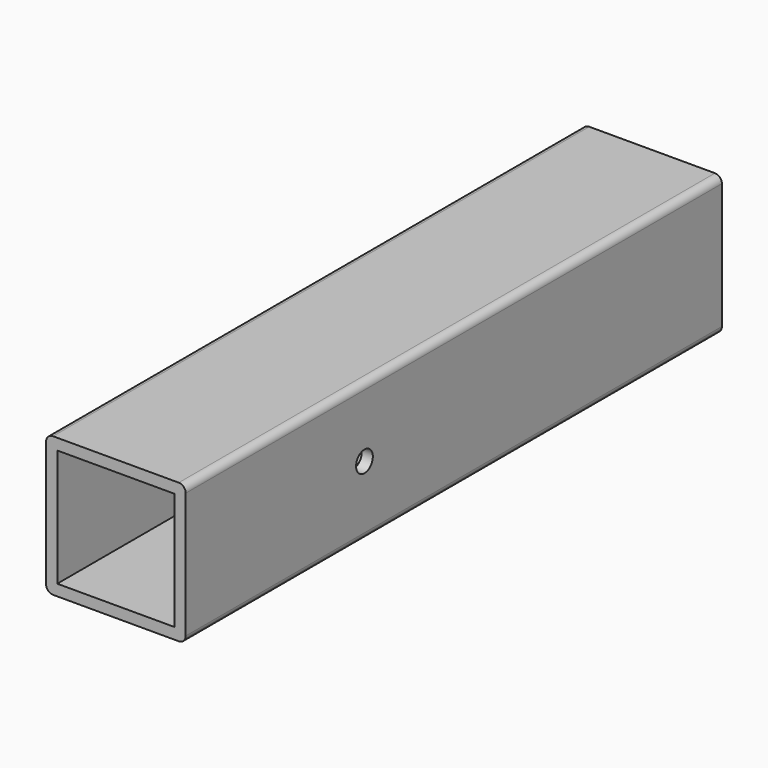
from build123d import *

# Parameters (mm, degrees)
F0_W     = 53.34
F0_H     = 53.34
F1_DEPTH = 304.8
F3_D     = 9.525


with BuildPart() as f1:
    # F0 (on Front) → F1 (new body)
    with BuildSketch(Plane.XZ):
        with BuildLine():
            ThreePointArc((31.75, 28.575), (30.820064, 30.820064), (28.575, 31.75))
            Line((28.575, 31.75), (-28.575, 31.75))
            ThreePointArc((-28.575, 31.75), (-30.820064, 30.820064), (-31.75, 28.575))
            Line((-31.75, 28.575), (-31.75, -28.575))
            ThreePointArc((-31.75, -28.575), (-30.820064, -30.820064), (-28.575, -31.75))
            Line((-28.575, -31.75), (28.575, -31.75))
            ThreePointArc((28.575, -31.75), (30.820064, -30.820064), (31.75, -28.575))
            Line((31.75, -28.575), (31.75, 28.575))
        make_face()
        Rectangle(F0_W, F0_H, mode=Mode.SUBTRACT)
    extrude(amount=-F1_DEPTH)

    # F3 (through all)
    with Locations(Plane.YZ.offset(31.75)):
        with Locations((101.6, 0)):
            Hole(F3_D / 2)


solid = f1.part
